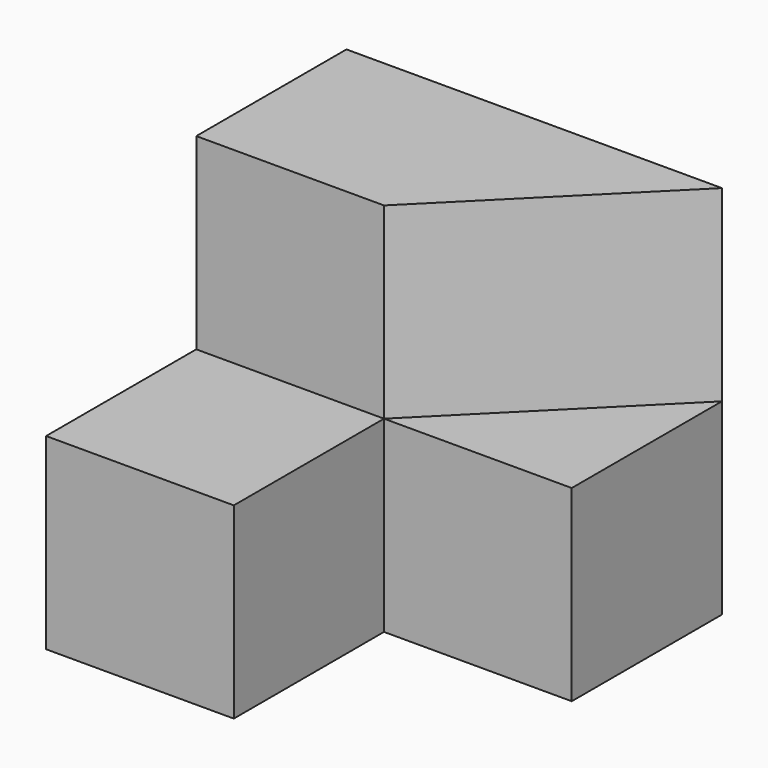
from build123d import *

# Parameters (mm, degrees)
F1_DEPTH = 20
F3_DEPTH = 20


with BuildPart() as f1:
    # F0 (on Top) → F1 (new body)
    with BuildSketch(Plane.XY):
        Polygon((0, 40), (0, 0), (20, 0), (20, 20), (40, 20), (40, 40), align=None)
    extrude(amount=F1_DEPTH)

    # F2 (on face) → F3 (join)
    with BuildSketch(Plane.XY.offset(20)):
        Polygon((0, 20), (20, 20), (40, 40), (0, 40), align=None)
    extrude(amount=F3_DEPTH)


solid = f1.part
